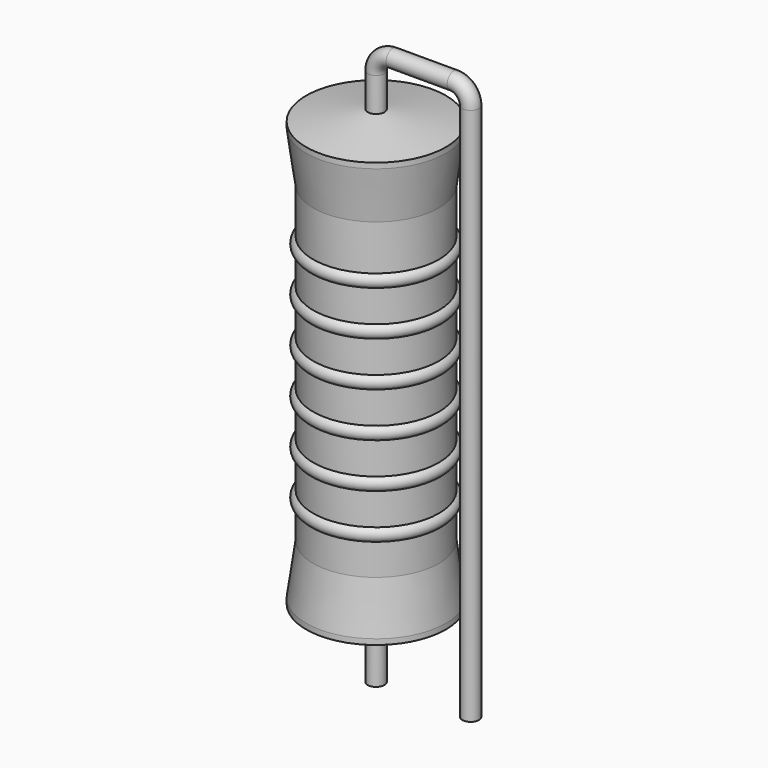
from build123d import *

# Parameters (mm, degrees)
SKETCH_R = 0.45


with BuildPart() as revolution:
    # Sketch002 → Revolution (revolve)
    with BuildSketch(Plane.XZ):
        Polygon((0, 0.1), (0, 24.1), (0.3375, 24.1), (3.75, 23.5), (3.75, 23.2075), (3.375, 20.5), (3.375, 3.7), (3.75, 0.9925), (3.75, 0.7), (0.3375, 0.1), align=None)
    revolve(axis=Axis((0, 0, 0), (0, 0, 1)))


with BuildPart() as sweep_body:
    # Sweep: sweep along a path in Sketch001
    with BuildLine(Plane.XZ) as sweep_path:
        Line((0, -3), (0, 25.9))
        ThreePointArc((0, 25.9), (0.263609, 26.536401), (0.900013, 26.8))
        Line((0.900013, 26.8), (4.18, 26.8))
        ThreePointArc((4.18, 26.8), (4.816396, 26.536396), (5.08, 25.9))
        Line((5.08, 25.9), (5.08, -3))
    # Sketch → Sweep (sweep)
    with BuildSketch(Plane.XY.offset(-2)):
        Circle(SKETCH_R)
    sweep(path=sweep_path.line)


with BuildPart() as obj1:
    # Sketch003 → Revolution001 (revolve)
    with BuildSketch(Plane.XZ):
        with BuildLine():
            Line((3, 19.75), (3, 3.7))
            Line((3, 3.7), (3.225, 3.7))
            Line((3.225, 3.7), (3.225, 5.35))
            ThreePointArc((3.225, 5.35), (3.6, 5.725), (3.225, 6.1))
            Line((3.225, 6.1), (3.225, 7.75))
            ThreePointArc((3.225, 7.75), (3.6, 8.125), (3.225, 8.5))
            Line((3.225, 8.5), (3.225, 10.15))
            ThreePointArc((3.225, 10.15), (3.6, 10.525), (3.225, 10.9))
            Line((3.225, 10.9), (3.225, 12.55))
            ThreePointArc((3.225, 12.55), (3.6, 12.925), (3.225, 13.3))
            Line((3.225, 13.3), (3.225, 14.95))
            ThreePointArc((3.225, 14.95), (3.6, 15.325), (3.225, 15.7))
            Line((3.225, 15.7), (3.225, 17.35))
            ThreePointArc((3.225, 17.35), (3.6, 17.725), (3.225, 18.1))
            Line((3.225, 19.75), (3.225, 18.1))
            Line((3, 19.75), (3.225, 19.75))
        make_face()
    revolve(axis=Axis((0, 0, 0), (0, 0, 1)))

    # obj1: union Revolution, Sweep body
    add(revolution.part)
    add(sweep_body.part)


solid = obj1.part
